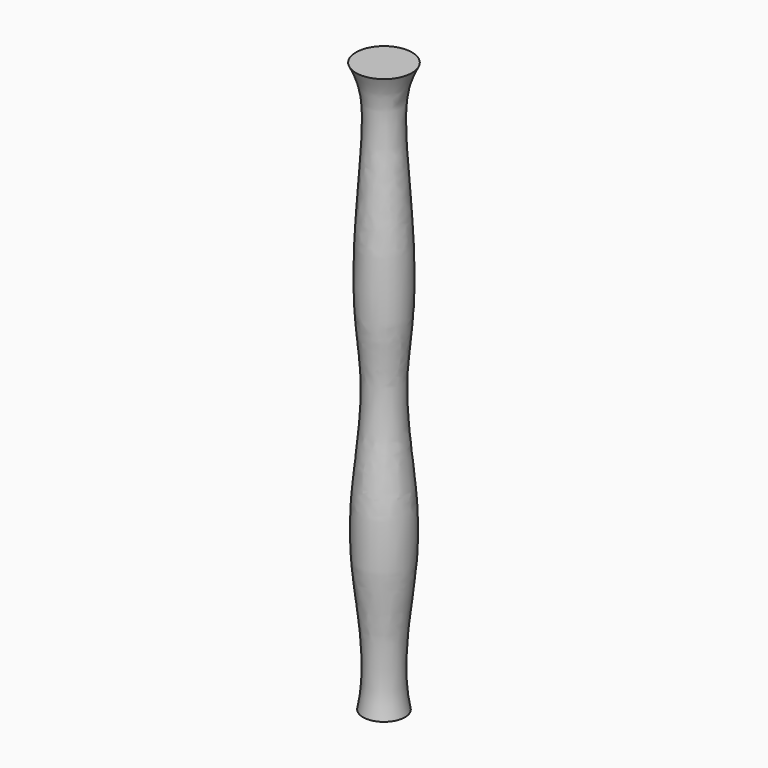
from build123d import *


with BuildPart() as f1:
    # F0 (on Front) → F1 (revolve)
    with BuildSketch(Plane.XZ):
        with BuildLine():
            Line((0, 53.5244755447), (-5.08, 53.5244755447))
            add(Edge.make_bspline(
                [(-5.08, 53.5244755447), (-2.8688578134, 49.4555394997), (-3.0961361822, 39.5336846363), (-5.2431731709, 15.7760247724), (-2.0593031099, 0.122721712), (-6.8816069958, -23.8654596148), (-2.01177782, -40.9910766503), (-3.81, -49.8876608908)],
                knots=[0, 0, 0, 0, 0.1656842754, 0.3797843805, 0.55805071, 0.7719159318, 1, 1, 1, 1], degree=3))
            Line((-3.81, -49.8876608908), (0, -49.8876608908))
            Line((0, -49.8876608908), (0, 53.5244755447))
        make_face()
    revolve(axis=Axis((0, 0, 1.8184073269), (0, 0, -1)))


solid = f1.part
